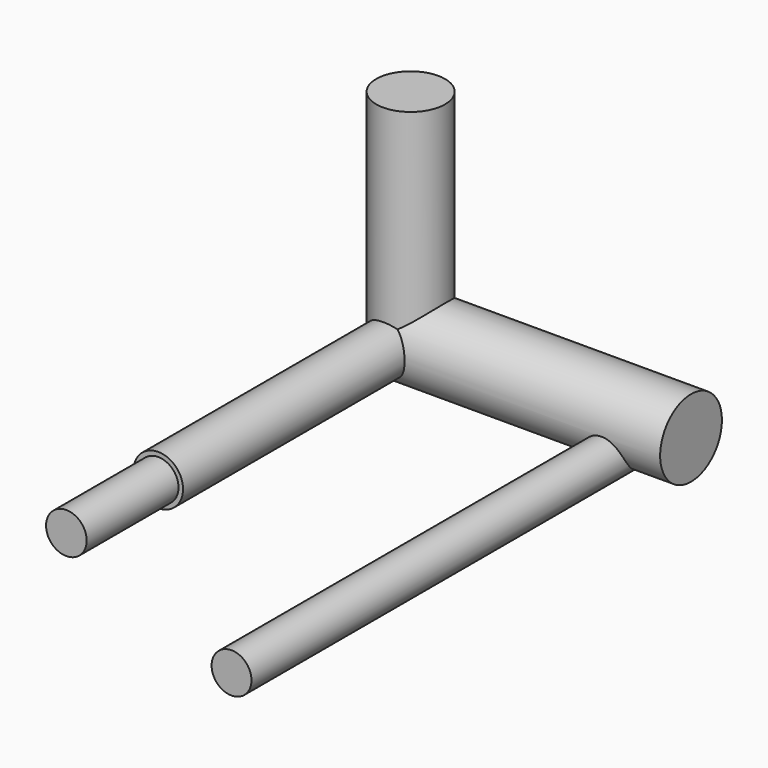
from build123d import *

# Parameters (mm, degrees)
F0_R     = 22.622596
F1_DEPTH = 164.338
F2_R     = 11.902986
F3_DEPTH = 252.222
F4_R     = 11.692144
F5_DEPTH = 293.624
F6_R     = 20.169753
F7_DEPTH = 125.222
F8_R     = 14.537522
F9_DEPTH = 184.912


with BuildPart() as f1:
    # F0 (on Right) → F1 (new body)
    with BuildSketch(Plane.YZ):
        Circle(F0_R)
    extrude(amount=F1_DEPTH)

    # F2 (on Front) → F3 (join)
    with BuildSketch(Plane.XZ):
        Circle(F2_R)
    extrude(amount=F3_DEPTH)

    # F4 (on Front) → F5 (join)
    with BuildSketch(Plane.XZ):
        with Locations((129.934579, -13.058762)):
            Circle(F4_R)
    extrude(amount=F5_DEPTH)

    # F6 (on Top) → F7 (join)
    with BuildSketch(Plane.XY):
        Circle(F6_R)
    extrude(amount=F7_DEPTH)

    # F8 (on Front) → F9 (join)
    with BuildSketch(Plane.XZ):
        Circle(F8_R)
    extrude(amount=F9_DEPTH)


solid = f1.part
